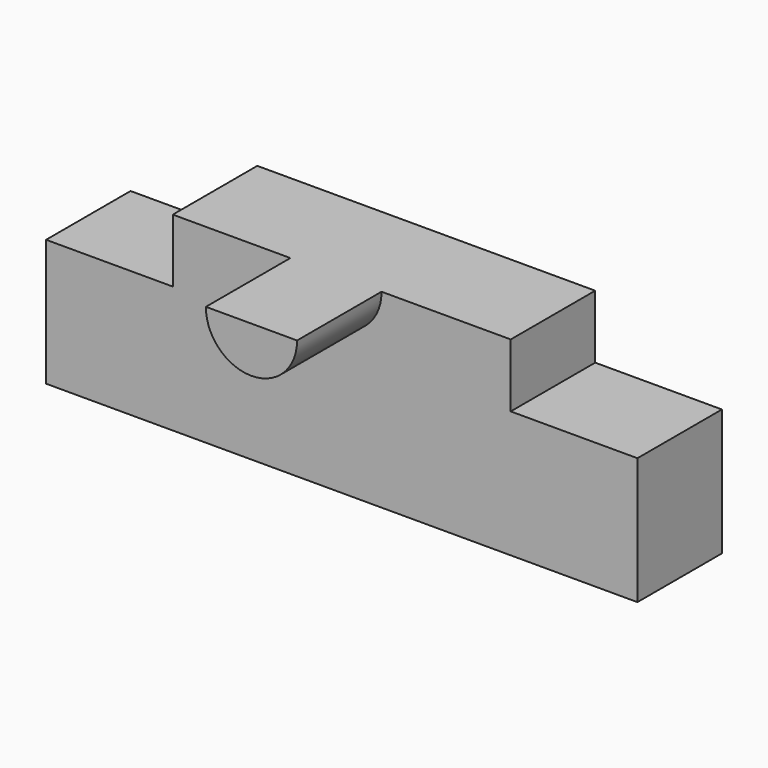
from build123d import *

# Parameters (mm, degrees)
F1_DEPTH = 25
F3_DEPTH = 25


with BuildPart() as f1:
    # F0 (on Front) → F1 (new body)
    with BuildSketch(Plane.XZ):
        Polygon((-68.520491, 30), (-68.520491, 0), (71.479509, 0), (71.479509, 30), (41.479509, 30), (41.479509, 45), (-38.520491, 45), (-38.520491, 30), align=None)
    extrude(amount=F1_DEPTH)

    # F2 (on face) → F3 (join)
    with BuildSketch(Plane.XZ.offset(25)):
        with BuildLine():
            ThreePointArc((-10.685148, 45), (0.05549, 34.113566), (10.893544, 44.903021))
            ThreePointArc((10.893544, 44.903021), (10.893435, 44.951511), (10.893108, 45))
            Line((10.893108, 45), (-10.685148, 45))
        make_face()
    extrude(amount=F3_DEPTH)


solid = f1.part
